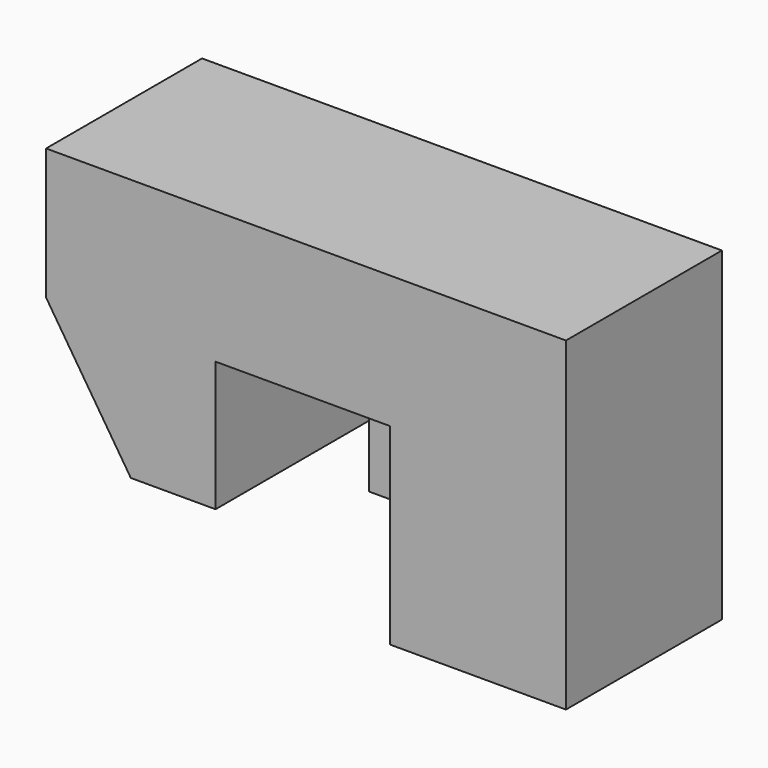
from build123d import *

# Parameters (mm, degrees)
F0_W     = 101.6
F0_H     = 38.1
F2_DEPTH = 63.5
F1_W     = 34.0687744319
F1_H     = 0.7092284867
F1_H_2   = 37.4890945023
F3_DEPTH = 37.592
F5_DEPTH = 12.192
F7_DEPTH = 50.8


with BuildPart() as f2:
    # F0 (on Top) → F2 (new body)
    with BuildSketch(Plane.XY):
        with Locations((2.7100164443, -7.8571270815)):
            Rectangle(F0_W, F0_H)
    extrude(amount=F2_DEPTH)

    # F1 (on face) → F3 (cut)
    with BuildSketch(Plane.XY):
        with Locations((2.0647738129, -27.2617413248)):
            Rectangle(F1_W, F1_H)
        with Locations((2.0647738129, -8.1625798303)):
            Rectangle(F1_W, F1_H_2)
    extrude(amount=F3_DEPTH, mode=Mode.SUBTRACT)

    # F4 (on face) → F5 (cut)
    with BuildSketch(Plane(origin=(0, 0, 0), x_dir=(1, 0, 0), z_dir=(0, 0, -1))):
        Polygon((-48.0899835557, -11.1928729185), (-14.9696134031, -11.1928729185), (-14.9696134031, -10.5819674209), (-14.9696134031, 26.9071270815), (-48.0899835557, 26.9071270815), align=None)
    extrude(amount=-F5_DEPTH, mode=Mode.SUBTRACT)

    # F6 (on face) → F7 (cut)
    with BuildSketch(Plane.XZ.offset(26.9071270815)):
        Polygon((-48.0899835557, 12.192), (-31.5297984794, 12.192), (-48.0899835557, 37.846), align=None)
    extrude(amount=-F7_DEPTH, mode=Mode.SUBTRACT)


solid = f2.part
